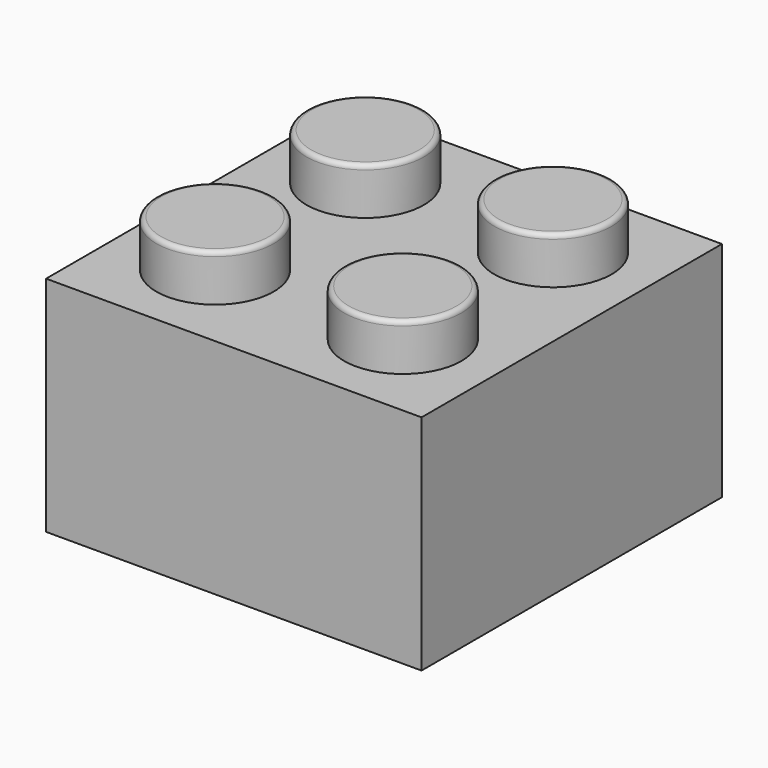
from build123d import *

# Parameters (mm, degrees)
F0_W     = 2.5
F0_H     = 2
F2_DEPTH = 4
F3_R     = 0.2


with BuildPart() as f1:
    # F0 (on Front) → F1 (revolve)
    with BuildSketch(Plane.XZ):
        with Locations((-1.25, 5.75)):
            Rectangle(F0_W, F0_H)
    revolve(axis=Axis((0, 0, 5.75), (0, 0, 1)))

    # F0 (on Front) → F2 (join, symmetric)
    with BuildSketch(Plane.XZ):
        Polygon((4, -4.75), (4, 4.75), (0, 4.75), (-2.5, 4.75), (-4, 4.75), (-4, -4.75), align=None)
    extrude(amount=F2_DEPTH, both=True)

    # F3
    f3_edges = [f1.edges().sort_by_distance(p)[0] for p in [
        (2.5, 0, 6.75),
    ]]
    fillet(f3_edges, radius=F3_R)

    # F4: F1 across face


with BuildPart() as f1_1:
    add(f1.part)
    add(f1.part.mirror(Plane.XZ.offset(4)))

    # F5: F1 across face


with BuildPart() as f1_2:
    add(f1_1.part)
    add(f1_1.part.mirror(Plane(origin=(4, -4, 0), x_dir=(0, 1, 0), z_dir=(1, 0, 0))))


with BuildPart() as f6_1:
    # F6: copy of F1
    add(f1_2.part)


solid = Compound([f1_2.part, f6_1.part])
